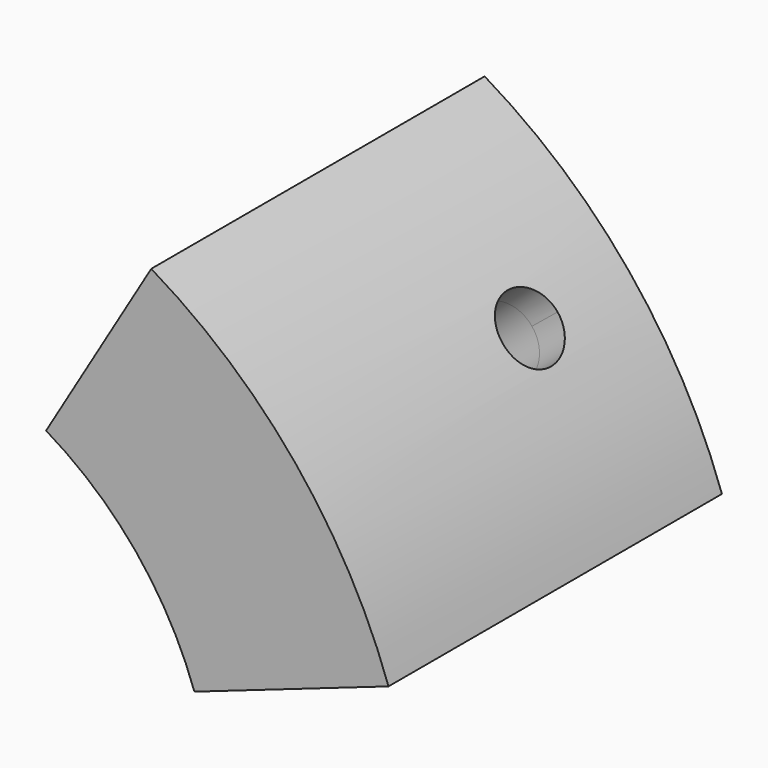
from build123d import *

# Parameters (mm, degrees)
F2_DEPTH = 26.4
F3_DEPTH = 4
F6_D     = 5
F6_DEPTH = 5
F6_TIP   = 1.5021515476
F7_D     = 5
F7_DEPTH = 7
F7_TIP   = 1.5021515476


with BuildPart() as f2:
    # F0 (on Front) → F2 (new body)
    with BuildSketch(Plane.XZ):
        with BuildLine():
            Line((23.6029717884, 8.2401288069), (37.7647548615, 13.1842060911))
            ThreePointArc((37.7647548615, 13.1842060911), (30.9779974122, 25.3054080451), (20.4548362885, 34.3744043208))
            Line((20.4548362885, 34.3744043208), (12.7842726803, 21.4840027005))
            ThreePointArc((12.7842726803, 21.4840027005), (19.3612483826, 15.8158800282), (23.6029717884, 8.2401288069))
        make_face()
    extrude(amount=F2_DEPTH)

    # F1 (on Front) + F0 (on Front) → F3 (join)
    with BuildSketch(Plane.XZ):
        with BuildLine():
            ThreePointArc((11.2501599587, 18.9059223764), (17.0378985767, 13.9179744248), (20.7706151738, 7.2513133501))
            Line((20.7706151738, 7.2513133501), (37.7647548615, 13.1842060911))
            ThreePointArc((37.7647548615, 13.1842060911), (30.9779974122, 25.3054080451), (20.4548362885, 34.3744043208))
            Line((20.4548362885, 34.3744043208), (11.2501599587, 18.9059223764))
        make_face()
    with BuildSketch(Plane.XZ):
        with BuildLine():
            Line((23.6029717884, 8.2401288069), (37.7647548615, 13.1842060911))
            ThreePointArc((37.7647548615, 13.1842060911), (30.9779974122, 25.3054080451), (20.4548362885, 34.3744043208))
            Line((20.4548362885, 34.3744043208), (12.7842726803, 21.4840027005))
            ThreePointArc((12.7842726803, 21.4840027005), (19.3612483826, 15.8158800282), (23.6029717884, 8.2401288069))
        make_face()
    extrude(amount=-F3_DEPTH)

    # F6 (one way)
    with BuildSketch(Plane(origin=(29.109795575, 0, 23.7793052059), x_dir=(0, 1, 0), z_dir=(-0.7744499353, 0, -0.6326352011))):
        with Locations((-5, 0)):
            Circle(F6_D / 2)
    extrude(amount=-F6_DEPTH, mode=Mode.SUBTRACT)
    with Locations(Plane(origin=(29.109795575, 0, 23.7793052059), x_dir=(0, 1, 0), z_dir=(-0.7744499353, 0, -0.6326352011))):
        with Locations((-5, 0)):
            with Locations((0, 0, -(F6_DEPTH + F6_TIP / 2))):  # 118° drill point
                Cone(0, F6_D / 2, F6_TIP, mode=Mode.SUBTRACT)

    # F7
    with Locations(Plane(origin=(29.109795575, 0, 23.7793052059), x_dir=(0, 1, 0), z_dir=(0.7744499353, 0, 0.6326352011))):
        with Locations((-5, 0)):
            Hole(F7_D / 2, depth=F7_DEPTH)
            with Locations((0, 0, -(F7_DEPTH + F7_TIP / 2))):  # 118° drill point
                Cone(0, F7_D / 2, F7_TIP, mode=Mode.SUBTRACT)


solid = f2.part
